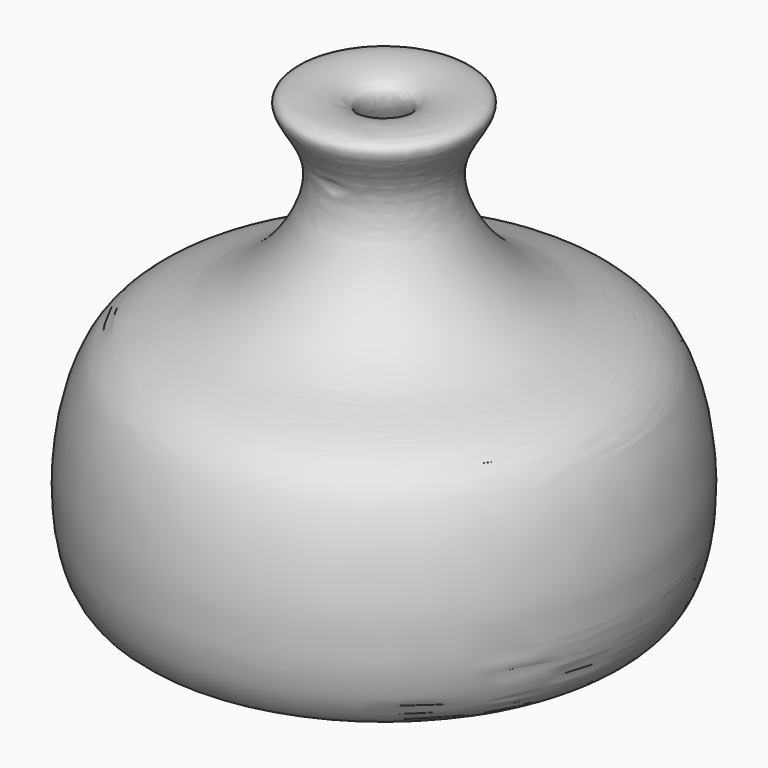
from build123d import *


with BuildPart() as f1:
    # F0 (on Right) → F1 (revolve)
    with BuildSketch(Plane.YZ):
        with BuildLine():
            Line((0, 7.825317566), (0, 0))
            add(Edge.make_bspline(
                [(0, 0), (22.2062050763, 8.7180778076), (45.4061992872, -10.1937066989), (43.7249862183, 43.3709573416), (20.773347361, 42.6108684339), (5.4900624283, 65.3342673114), (19.7708847049, 77.3339736102), (-0.3920117197, 75.7496744434), (9.3451072233, 65.8250790173), (0.8149313158, 53.0548620464), (32.579240857, 35.1961200398), (39.8443845082, 20.914924922), (17.8022642464, 3.2514272673), (6.0451415679, 6.7135450895), (0, 7.825317566)],
                knots=[0, 0, 0, 0, 0.121885035, 0.2304294765, 0.315992579, 0.4068843517, 0.4673307216, 0.528125801, 0.583240435, 0.6473508552, 0.7569486389, 0.8264738156, 0.9184881897, 1, 1, 1, 1], degree=3))
        make_face()
    revolve(axis=Axis((0, 0, 3.912658783), (0, 0, -1)))


solid = f1.part
